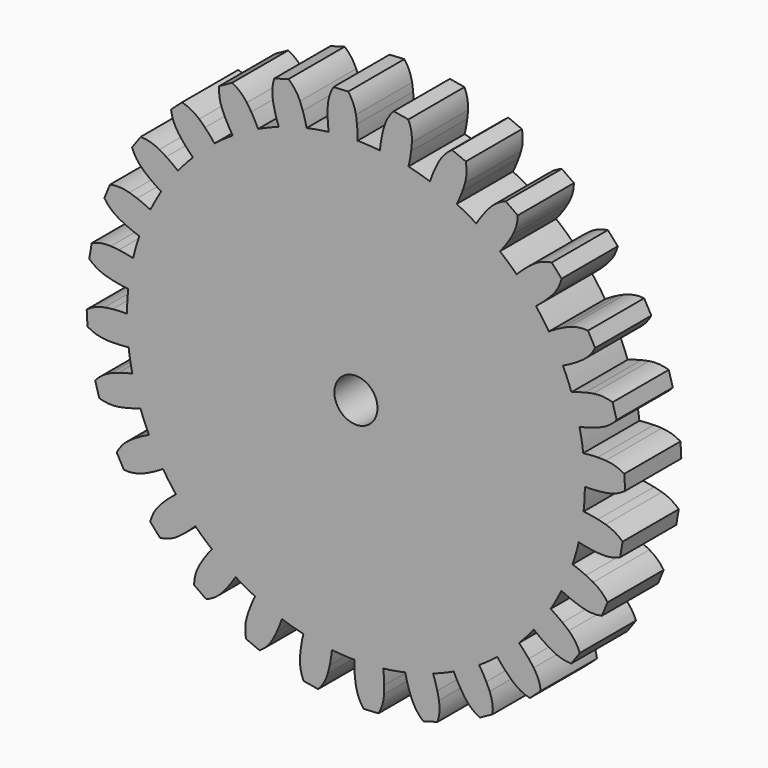
from build123d import *

# Parameters (mm, degrees)
F0_R     = 2.4000000006
F1_DEPTH = 7.819799956
F2_COUNT = 28
F2_ANGLE = 347.1428571429


with BuildPart() as f1:
    # F0 (on Front) → F1 (new body)
    with BuildSketch(Plane.XZ):
        with BuildLine():
            ThreePointArc((-3.0387044557, 25.318299211), (-16.9228105837, -19.0753369998), (25.4999999943, 0))
            ThreePointArc((25.4999999943, 0), (18.0964584082, 17.965750549), (0.1848476129, 25.4993300122))
            ThreePointArc((0.1848476129, 25.4993300122), (-1.4297964042, 25.4598837773), (-3.0387044557, 25.318299211))
        make_face()
        Circle(F0_R, mode=Mode.SUBTRACT)
        with BuildLine():
            ThreePointArc((-3.0387044557, 25.318299211), (-1.4297964042, 25.4598837773), (0.1848476129, 25.4993300122))
            ThreePointArc((0.1848476129, 25.4993300122), (0.1739625867, 26.304566993), (0.1172798786, 27.1078802257))
            ThreePointArc((0.1172798786, 27.1078802257), (-1.5199651929, 27.0654878159), (-3.1516620551, 26.9243003844))
            ThreePointArc((-3.1516620551, 26.9243003844), (-3.1180458089, 26.119691767), (-3.0387044557, 25.318299211))
        make_face()
        with BuildLine():
            ThreePointArc((-3.1516620551, 26.9243003844), (-1.5199651929, 27.0654878159), (0.1172798786, 27.1078802257))
            ThreePointArc((0.1172798786, 27.1078802257), (0.0657338617, 27.5548726914), (0, 27.9999999943))
            ThreePointArc((0, 27.9999999943), (-0.3065989319, 29.04664804), (-0.8578095368, 29.9877335332))
            Line((-0.8578095368, 29.9877335332), (-2.5051450641, 29.8952211543))
            ThreePointArc((-2.5051450641, 29.8952211543), (-2.9475216282, 28.8983370026), (-3.1350053303, 27.8239418713))
            ThreePointArc((-3.1350053303, 27.8239418713), (-3.150487426, 27.3742535782), (-3.1516620551, 26.9243003844))
        make_face()
    extrude(amount=F1_DEPTH)

    # F2: F1 ×28 about axis
    f2_axis = Axis((0, 0, 0), (0, 1, 0))


with BuildPart() as f1_1:
    add(f1.part)
    for i in range(1, F2_COUNT):
        add(f1.part.rotate(f2_axis, i * F2_ANGLE / (F2_COUNT - 1)))


solid = f1_1.part
